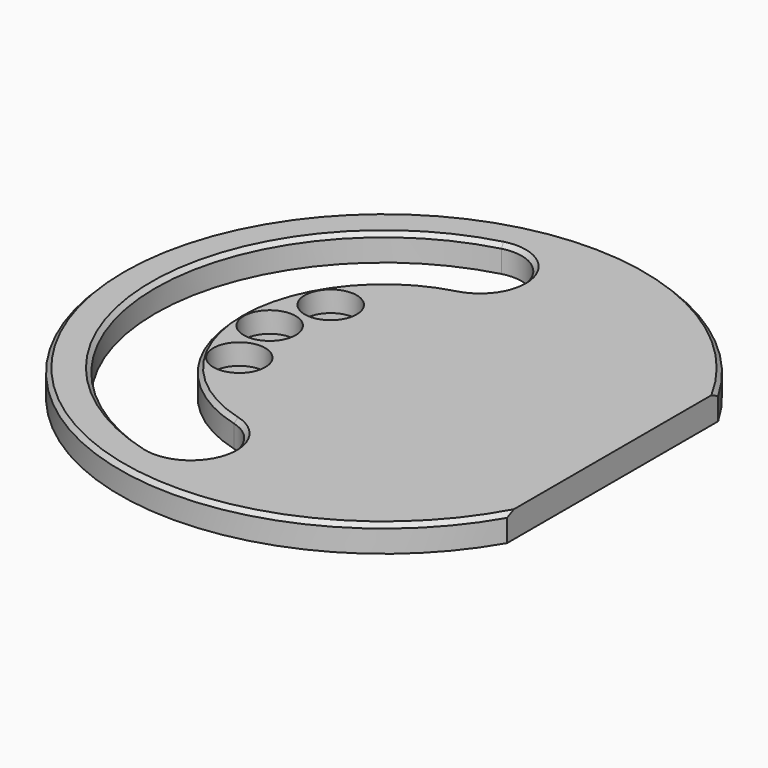
from build123d import *

# Parameters (mm, degrees)
F0_R      = 127
F1_DEPTH  = 6.35
F4_DEPTH  = 12.7
F5_R      = 12.5
F6_DEPTH  = 10
F8_SIZE   = 2
F9_W      = 28.838306
F9_H      = 155.121999
F10_DEPTH = 12.7
F11_W     = 82
F11_H     = 6.4
F12_DEPTH = 7
F13_R     = 1


with BuildPart() as f1:
    # F0 (on Top) → F1 (new body, symmetric)
    with BuildSketch(Plane.XY):
        Circle(F0_R)
    extrude(amount=F1_DEPTH, both=True)

    # F3 (on face) → F4 (cut, through all)
    with BuildSketch(Plane.XY.offset(6.35)):
        with BuildLine():
            ThreePointArc((-18.117333, -67.614808), (-70, 0), (-18.117333, 67.614808))
            ThreePointArc((-18.117333, 67.614808), (-3.975198, 92.109705), (-28.470095, 106.251841))
            ThreePointArc((-28.470095, 106.251841), (-110, 0), (-28.470095, -106.251841))
            ThreePointArc((-28.470095, -106.251841), (-3.975198, -92.109705), (-18.117333, -67.614808))
        make_face()
    extrude(amount=-F4_DEPTH, mode=Mode.SUBTRACT)

    # F5 (on face) → F6 (cut)
    with BuildSketch(Plane.XY.offset(6.35)):
        with Locations((-47.631397, 27.5)):
            Circle(F5_R)
        with Locations((-55, 0)):
            Circle(F5_R)
        with Locations((-47.631397, -27.5)):
            Circle(F5_R)
    extrude(amount=-F6_DEPTH, mode=Mode.SUBTRACT)

    # F8
    f8_edges = [f1.edges().sort_by_distance(p)[0] for p in [
        (-110, 0, 6.35),
        (-127, 0, 6.35),
    ]]
    chamfer(f8_edges, length=F8_SIZE)

    # F9 (on face) → F10 (cut, through all)
    with BuildSketch(Plane.XY.offset(6.35)):
        with Locations((124.419153, -2.012827)):
            Rectangle(F9_W, F9_H)
    extrude(amount=-F10_DEPTH, mode=Mode.SUBTRACT)

    # F11 (on face) → F12 (cut)
    with BuildSketch(Plane(origin=(0, 0, -6.35), x_dir=(1, 0, 0), z_dir=(0, 0, -1))):
        with Locations((41, 0)):
            Rectangle(F11_W, F11_H)
    extrude(amount=-F12_DEPTH, mode=Mode.SUBTRACT)

    # F13
    f13_edges = [f1.edges().sort_by_distance(p)[0] for p in [
        (0, -3.2, -2.85),
        (0, 3.2, -2.85),
        (82, 3.2, -2.85),
        (82, -3.2, -2.85),
    ]]
    fillet(f13_edges, radius=F13_R)


solid = f1.part
